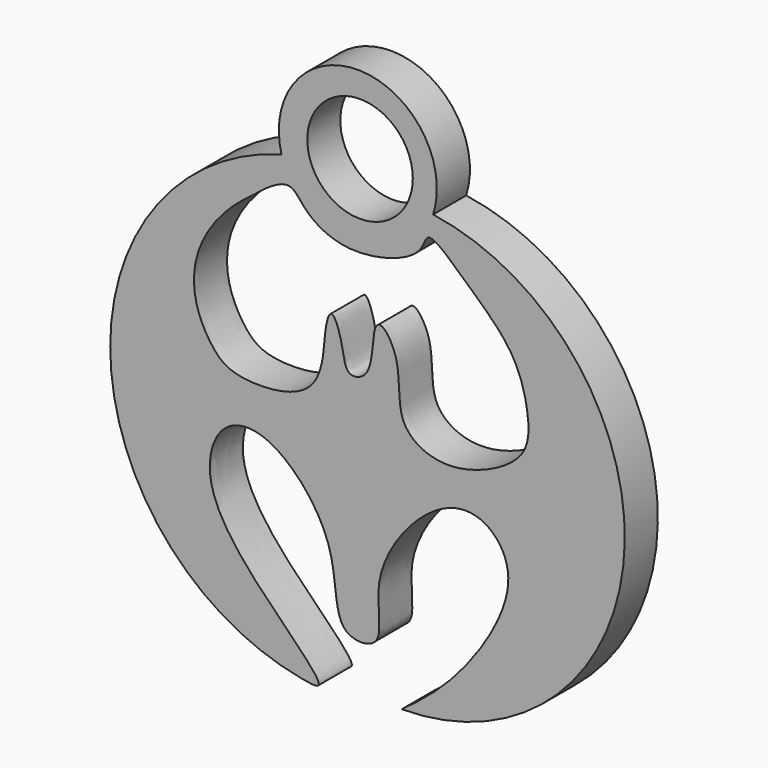
from build123d import *

# Parameters (mm, degrees)
F0_R     = 4.0539877688
F1_DEPTH = 3.175


with BuildPart() as f1:
    # F0 (on Front) → F1 (new body)
    with BuildSketch(Plane.XZ):
        with BuildLine():
            ThreePointArc((5.129438825, 18.0148314685), (-0.5081526977, 25.9246413463), (-6.5246568993, 18.2990785688))
            ThreePointArc((-6.5246568993, 18.2990785688), (-19.6668472214, 0.1953222817), (-4.9613029696, -16.6632104665))
            add(Edge.make_bspline(
                [(-4.9613029696, -16.6632104665), (-4.3558959251, -16.7767318544), (-2.4226689604, -17.1392360739), (-8.4488409769, -11.6436921985), (-12.8019365877, -6.0645229359), (-11.406656289, -1.1271280467), (-7.1833623455, -0.6153207404), (-1.8219522392, -6.5833623097), (-2.7465869931, -12.90759147), (1.7838437793, -12.8149972795), (-0.1293814585, -7.6762602728), (4.8667842045, -1.2765429828), (9.199311275, -0.8826773361), (12.2202691667, -5.0534895322), (7.2260226314, -12.8643074595), (4.1182404529, -15.1868971709), (2.7133461554, -16.236839816)],
                knots=[0, 0, 0, 0, 0.0369773311, 0.1180785295, 0.2086369269, 0.2731033511, 0.3316267961, 0.4206183687, 0.4961432129, 0.5449849239, 0.6116523053, 0.7011798004, 0.7632894232, 0.8269108786, 0.9217538728, 1, 1, 1, 1], degree=3))
            ThreePointArc((2.7133461554, -16.236839816), (19.8113100918, -0.2318695797), (5.129438825, 18.0148314685))
        make_face()
        with BuildLine():
            add(Edge.make_bspline(
                [(-5.9929518029, 16.3515564054), (-6.6663768838, 16.4300237448), (-8.8653584835, 14.7753838469), (-11.3404371319, 12.7310608038), (-13.2837035839, 9.5330024945), (-13.3565975279, 6.0862853144), (-11.8711412595, 3.4136221523), (-10.2857914598, 2.0792158901), (-6.3789291588, 2.0264711839), (-3.9316130795, 3.2759533146), (-3.2201322223, 5.6710241676), (-3.1877985362, 7.9775689376), (-2.5833750425, 9.2584542317), (-1.7569772621, 6.8582960901), (-1.6443346534, 4.8003278574), (0.5693879226, 5.3805424771), (0.3880952572, 8.6208453662), (1.1333346155, 9.609729563), (2.8117377019, 7.1704868058), (2.1635560278, 3.1342136584), (5.0368854745, 1.2242604094), (8.5479554519, 1.5437281293), (12.4501365284, 3.7263566749), (12.54975341, 6.8574248429), (11.5019611008, 10.8610738606), (7.9161533488, 13.9658553437), (4.5386141062, 17.1785239754), (4.4093387332, 14.5853789015), (-1.3048537508, 12.8834339536), (-4.7625266071, 14.8938746847), (-5.4848456463, 16.29235199), (-5.9929518029, 16.3515564054)],
                knots=[0, 0, 0, 0, 0.0361759597, 0.0750602847, 0.1143647915, 0.1523948254, 0.1877384689, 0.2168599077, 0.2569916065, 0.2904175589, 0.3223430858, 0.3548969583, 0.3725042213, 0.401734367, 0.4300227429, 0.4542771876, 0.4909018293, 0.5083078272, 0.5395389995, 0.5810626814, 0.6159385004, 0.654859509, 0.6968028791, 0.731434303, 0.7725911596, 0.8200783469, 0.8588751321, 0.8832148305, 0.9315751513, 0.972704866, 1, 1, 1, 1], degree=3))
        make_face(mode=Mode.SUBTRACT)
        with Locations((-0.4888849217, 19.945891574)):
            Circle(F0_R, mode=Mode.SUBTRACT)
    extrude(amount=F1_DEPTH)


solid = f1.part
